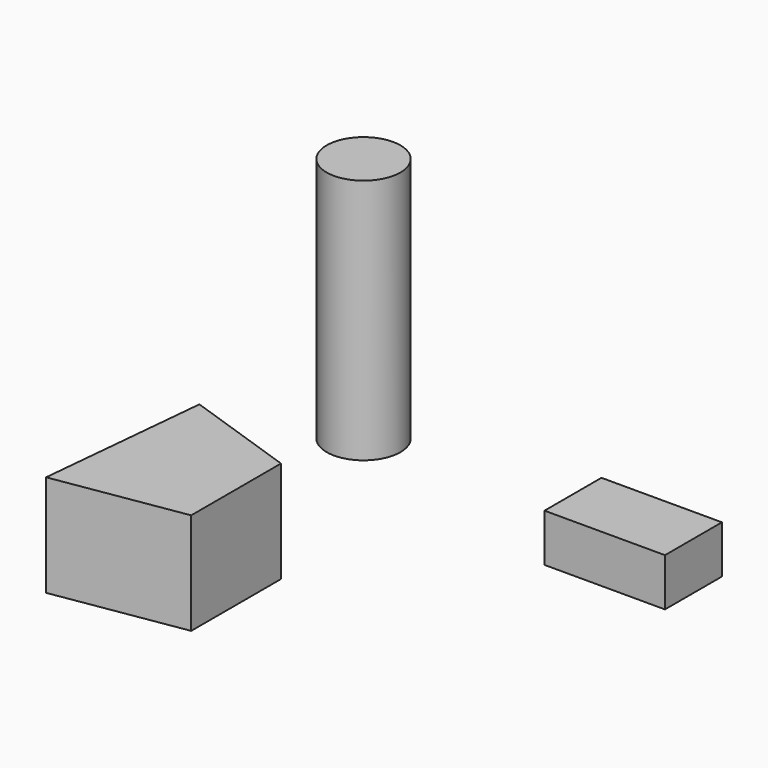
from build123d import *

# Parameters (mm, degrees)
F0_W     = 207.5331061672
F0_H     = 122.6332091976
F1_DEPTH = 82.296
F2_DEPTH = 175.26
F0_R     = 63.5
F3_DEPTH = 424.18
F4_DEPTH = 71.12


with BuildPart() as f1:
    # F0 (on Top) → F1 (new body)
    with BuildSketch(Plane.XY):
        with Locations((212.2609269613, 171.3262020208)):
            Rectangle(F0_W, F0_H)
    extrude(amount=F1_DEPTH)


with BuildPart() as f2:
    # F0 (on Top) → F2 (new body)
    with BuildSketch(Plane.XY):
        Polygon((-142.5804198811, -143.5984707565), (-335.9635537997, -77.565192872), (-364.2635406156, -372.3565564559), (-142.5804198811, -336.9815940954), align=None)
        Polygon((-310.0219274309, -292.1732745837), (-277.0052831988, -160.1067611335), (-238.994547933, -309.9301279931), align=None, mode=Mode.SUBTRACT)
        Polygon((-238.994547933, -309.9301279931), (-277.0052831988, -160.1067611335), (-310.0219274309, -292.1732745837), align=None)
    extrude(amount=F2_DEPTH)

    # F0 (on Top) → F4 (cut)
    with BuildSketch(Plane.XY):
        Polygon((-238.994547933, -309.9301279931), (-277.0052831988, -160.1067611335), (-310.0219274309, -292.1732745837), align=None)
    extrude(amount=F4_DEPTH, mode=Mode.SUBTRACT)


with BuildPart() as f3:
    # F0 (on Top) → F3 (new body)
    with BuildSketch(Plane.XY):
        with Locations((-311.5397393703, 245.354399085)):
            Circle(F0_R)
    extrude(amount=F3_DEPTH)


solid = Compound([f1.part, f2.part, f3.part])
